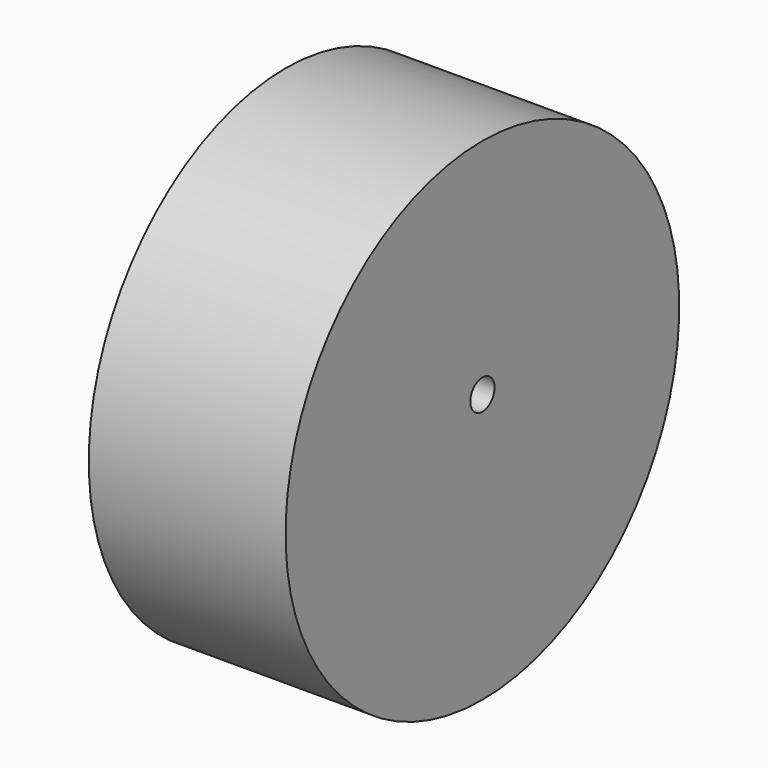
from build123d import *

# Parameters (mm, degrees)
CYLINDER270_R          = 2
CYLINDER270_DEPTH      = 26
CYLINDER269_R          = 32.5
CYLINDER269_DEPTH      = 26
CUT249_PLACEMENT_ANGLE = 90


with BuildPart() as cylinder270:
    # Cylinder270 → Cylinder270 (new body)
    with BuildSketch(Plane.XY):
        Circle(CYLINDER270_R)
    extrude(amount=CYLINDER270_DEPTH)


with BuildPart() as cut249:
    # Cylinder269 → Cylinder269 (new body)
    with BuildSketch(Plane(origin=(3, 0, 0), x_dir=(1, 0, 0), z_dir=(0, 0, 1))):
        Circle(CYLINDER269_R)
    extrude(amount=CYLINDER269_DEPTH)

    # Cut249: cut Cylinder270
    add(cylinder270.part, mode=Mode.SUBTRACT)


with BuildPart() as cut249_1:
    # Cut249 placement: moved
    add(cut249.part.moved(Location((47, -74, 10))).rotate(Axis((47, -74, 10), (0, 1, 0)), CUT249_PLACEMENT_ANGLE))


solid = cut249_1.part
